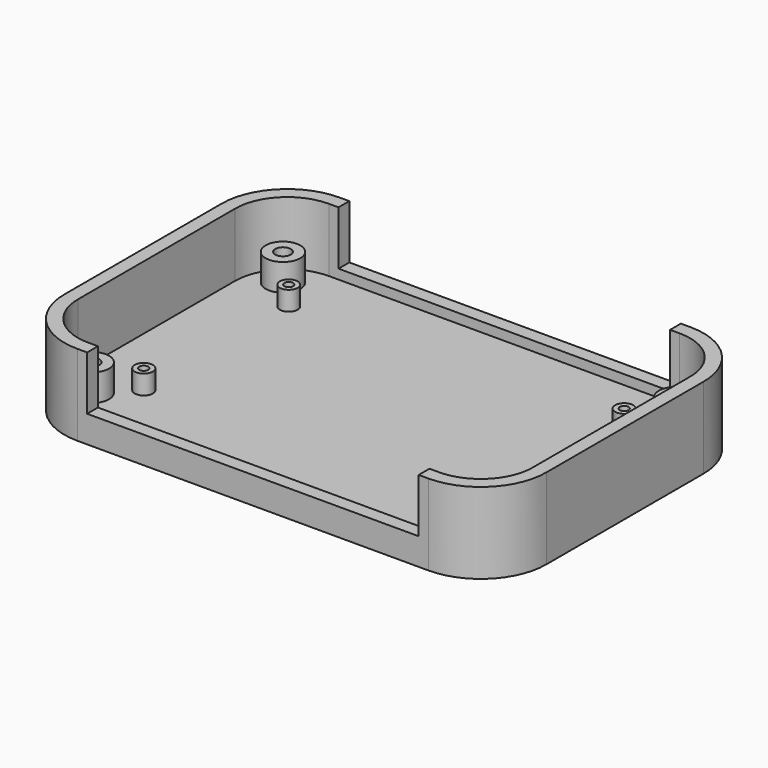
from build123d import *

# Parameters (mm, degrees)
F1_DEPTH  = 4.5
F2_R      = 4.5
F2_R_2    = 2
F2_R_3    = 1.999996
F3_DEPTH  = 7
F5_DEPTH  = 16.5
F6_R      = 2.3
F6_R_2    = 1.15
F6_R_3    = 2.35
F7_DEPTH  = 5
F9_W      = 86
F9_H      = 14.080024
F9_H_2    = 11.670903
F10_DEPTH = 50.8


with BuildPart() as f1:
    # F0 (on Top) → F1 (new body)
    with BuildSketch(Plane.XY):
        with BuildLine():
            ThreePointArc((0, 17), (4.979185, 4.979185), (17, 0))
            Line((17, 0), (108, 0))
            ThreePointArc((108, 0), (120.020815, 4.979185), (125, 17))
            Line((125, 17), (125, 68))
            ThreePointArc((125, 68), (120.020815, 80.020815), (108, 85))
            Line((108, 85), (17, 85))
            ThreePointArc((17, 85), (4.979185, 80.020815), (0, 68))
            Line((0, 68), (0, 17))
        make_face()
    extrude(amount=-F1_DEPTH)

    # F4 (on Top) → F5 (join)
    with BuildSketch(Plane.XY):
        with BuildLine():
            ThreePointArc((0, 17), (4.979185, 4.979185), (17, 0))
            Line((17, 0), (108, 0))
            ThreePointArc((108, 0), (120.020815, 4.979185), (125, 17))
            Line((125, 17), (125, 68))
            ThreePointArc((125, 68), (120.020815, 80.020815), (108, 85))
            Line((108, 85), (17, 85))
            ThreePointArc((17, 85), (4.979185, 80.020815), (0, 68))
            Line((0, 68), (0, 17))
        make_face()
        with BuildLine():
            ThreePointArc((3.5, 68), (7.454058, 77.545942), (17, 81.5))
            Line((17, 81.5), (108, 81.5))
            ThreePointArc((108, 81.5), (117.545942, 77.545942), (121.5, 68))
            Line((121.5, 68), (121.5, 17))
            ThreePointArc((121.5, 17), (117.545942, 7.454058), (108, 3.5))
            Line((108, 3.5), (17, 3.5))
            ThreePointArc((17, 3.5), (7.454058, 7.454058), (3.5, 17))
            Line((3.5, 17), (3.5, 68))
        make_face(mode=Mode.SUBTRACT)
    extrude(amount=F5_DEPTH)

    # F6 (on Top) → F7 (join)
    with BuildSketch(Plane.XY):
        with Locations((19, 66)):
            Circle(F6_R)
        with Locations((19, 66)):
            Circle(F6_R_2, mode=Mode.SUBTRACT)
        with Locations((106, 66)):
            Circle(F6_R_3)
        with Locations((106, 66)):
            Circle(F6_R_2, mode=Mode.SUBTRACT)
        with Locations((106, 19)):
            Circle(F6_R_3)
        with Locations((106, 19)):
            Circle(F6_R_2, mode=Mode.SUBTRACT)
        with Locations((19, 19)):
            Circle(F6_R_3)
        with Locations((19, 19)):
            Circle(F6_R_2, mode=Mode.SUBTRACT)
    extrude(amount=F7_DEPTH)

    # F9 (on offset) → F10 (cut)
    with BuildSketch(Plane.XY.offset(2.5)):
        with Locations((62.5, 77.959988)):
            Rectangle(F9_W, F9_H)
        with Locations((62.5, 5.835451)):
            Rectangle(F9_W, F9_H_2)
    extrude(amount=F10_DEPTH, mode=Mode.SUBTRACT)


with BuildPart() as f3:
    # F2 (on Top) → F3 (new body)
    with BuildSketch(Plane.XY):
        with Locations((11.5, 73.5)):
            Circle(F2_R)
        with Locations((11.5, 73.5)):
            Circle(F2_R_2, mode=Mode.SUBTRACT)
        with Locations((113.5, 73.5)):
            Circle(F2_R)
        with Locations((113.5, 73.5)):
            Circle(F2_R_3, mode=Mode.SUBTRACT)
        with Locations((11.5, 11.5)):
            Circle(F2_R)
        with Locations((11.5, 11.5)):
            Circle(F2_R_3, mode=Mode.SUBTRACT)
        with Locations((113.5, 11.5)):
            Circle(F2_R)
        with Locations((113.5, 11.5)):
            Circle(F2_R_3, mode=Mode.SUBTRACT)
    extrude(amount=F3_DEPTH)


solid = Compound([f1.part, f3.part])
